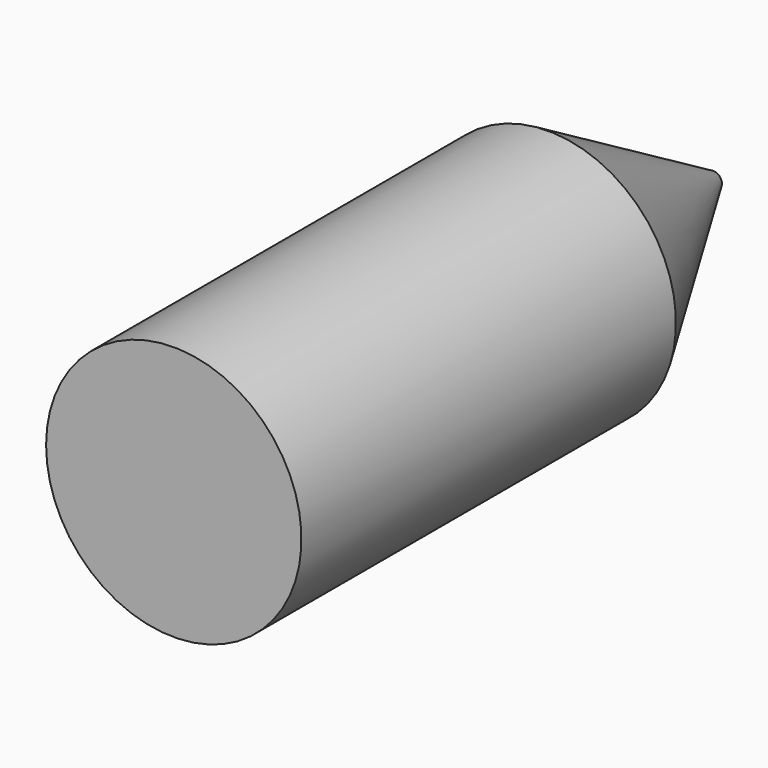
from build123d import *

# Parameters (mm, degrees)
F0_W = 15
F0_H = 55


with BuildPart() as f1:
    # F0 (on Top) → F1 (revolve)
    with BuildSketch(Plane.XY):
        Polygon((-1, 59.607257), (-15, 35.358545), (0, 35.358545), (0, 59.607257), align=None)
        with Locations((-7.5, 7.858545)):
            Rectangle(F0_W, F0_H)
    revolve(axis=Axis((0, 19.982901, 0), (0, -1, 0)))


solid = f1.part
